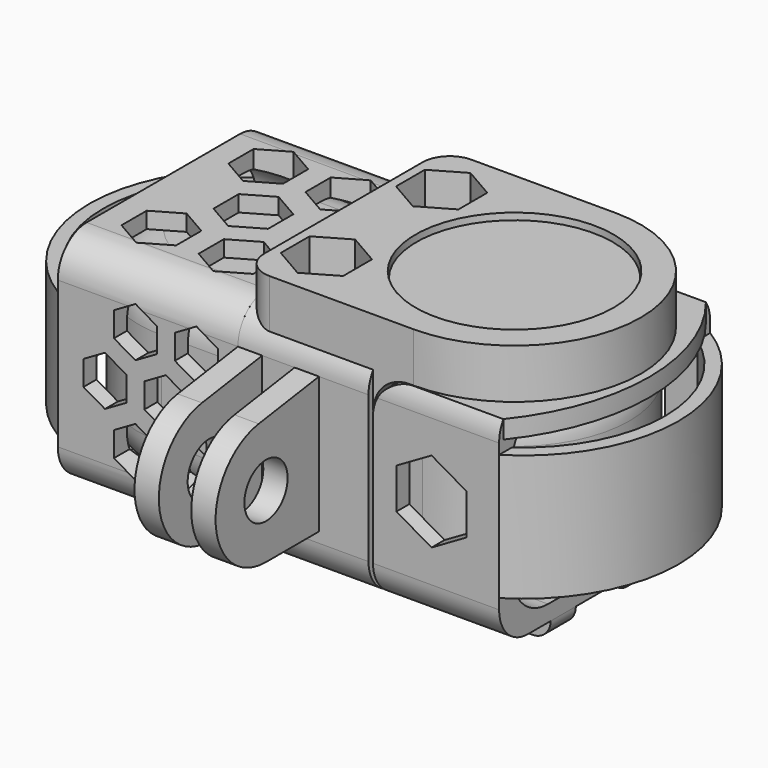
from build123d import *

# Parameters (mm, degrees)
PAD_DEPTH            = 10.25
FILLET_R             = 5
SKETCH001_R          = 10.9
PAD001_DEPTH         = 4.8
PAD002_DEPTH         = 10
PAD002_DEPTH_BACK    = 4.5
PAD003_DEPTH         = 4.5
SKETCH004_R          = 3
POCKET_DEPTH         = 4.501
POCKET_DEPTH_BACK    = 10.001
SKETCH005_W          = 20
SKETCH005_H          = 20
POCKET001_DEPTH      = 1.8
PAD004_DEPTH         = 5.5
FILLET001_R          = 4
SKETCH007_R          = 11
POCKET002_DEPTH      = 15.751
POCKET010_DEPTH      = 12.151
POCKET010_DEPTH_BACK = 15.751
PAD005_DEPTH         = 20
PAD006_DEPTH         = 7.5
SKETCH013_W          = 49
SKETCH013_H          = 2
POCKET003_DEPTH      = 4
PAD007_DEPTH         = 14
PAD008_DEPTH         = 7
SKETCH016_W          = 40
SKETCH016_H          = 40
POCKET004_DEPTH      = 1.901
SKETCH017_R          = 11.5
POCKET005_DEPTH      = 12.151
POCKET006_DEPTH      = 12.151
POCKET007_DEPTH      = 12.15
POCKET008_DEPTH      = 14.651
POCKET008_DEPTH_BACK = 14.651
PAD009_DEPTH         = 2
POCKET009_DEPTH      = 14.651
POCKET009_DEPTH_BACK = 14.651
POCKET011_DEPTH      = 14.651
POCKET011_DEPTH_BACK = 14.651


with BuildPart() as camera:
    # Sketch → Pad (new body, symmetric)
    with BuildSketch(Plane.XY):
        with BuildLine():
            ThreePointArc((-14.5, 12.75), (-27.25, 0), (-14.5, -12.75))
            Line((-14.5, -12.75), (14.5, -12.75))
            ThreePointArc((14.5, -12.75), (27.25, 0), (14.5, 12.75))
            Line((-14.5, 12.75), (14.5, 12.75))
        make_face()
    extrude(amount=PAD_DEPTH, both=True)

    # Fillet
    fillet_edges = [camera.edges().sort_by_distance(p)[0] for p in [
        (27.25, 0, 10.25),
        (27.25, 0, -10.25),
    ]]
    fillet(fillet_edges, radius=FILLET_R)

    # Sketch001 (on Face11 of Fillet) → Pad001 (join)
    with BuildSketch(Plane.XY.offset(10.25)):
        with Locations((14.5, 0)):
            Circle(SKETCH001_R)
    extrude(amount=PAD001_DEPTH)


with BuildPart() as holder:
    # Sketch002 → Pad002 (new body, two sides)
    with BuildSketch(Plane.YZ) as pad002_sk:
        with BuildLine():
            Line((-14.65, 8.15), (-14.65, -8.15))
            ThreePointArc((-14.65, -8.15), (-13.478427, -10.978427), (-10.65, -12.15))
            Line((-10.65, -12.15), (10.65, -12.15))
            ThreePointArc((10.65, -12.15), (13.478427, -10.978427), (14.65, -8.15))
            Line((14.65, -8.15), (14.65, 8.15))
            ThreePointArc((14.65, 8.15), (13.478427, 10.978427), (10.65, 12.15))
            Line((10.65, 12.15), (-10.65, 12.15))
            ThreePointArc((-10.65, 12.15), (-13.478427, 10.978427), (-14.65, 8.15))
        make_face()
        with BuildLine():
            Line((-12.85, 5.35), (-12.85, -5.35))
            ThreePointArc((-12.85, -5.35), (-11.385534, -8.885534), (-7.85, -10.35))
            Line((-7.85, -10.35), (7.85, -10.35))
            ThreePointArc((7.85, -10.35), (11.385534, -8.885534), (12.85, -5.35))
            Line((12.85, -5.35), (12.85, 5.35))
            ThreePointArc((12.85, 5.35), (11.385534, 8.885534), (7.85, 10.35))
            Line((7.85, 10.35), (-7.85, 10.35))
            ThreePointArc((-7.85, 10.35), (-11.385534, 8.885534), (-12.85, 5.35))
        make_face(mode=Mode.SUBTRACT)
    extrude(amount=PAD002_DEPTH)
    extrude(pad002_sk.sketch, amount=-PAD002_DEPTH_BACK)

    # Sketch003 → Pad003 (join, symmetric)
    with BuildSketch(Plane.YZ):
        with BuildLine():
            ThreePointArc((-23.013458, 6.926247), (-28.981537, -0.508069), (-22, -7))
            Line((-22, -7), (-14.65, -7))
            Line((-14.65, 8.15), (-14.65, -7))
            Line((-23.013458, 6.926247), (-14.65, 8.15))
        make_face()
    extrude(amount=PAD003_DEPTH, both=True)

    # Sketch004 → Pocket (cut, two sides)
    with BuildSketch(Plane.YZ) as pocket_sk:
        with Locations((-22, 0)):
            Circle(SKETCH004_R)
    extrude(amount=-POCKET_DEPTH, mode=Mode.SUBTRACT)
    extrude(pocket_sk.sketch, amount=POCKET_DEPTH_BACK, mode=Mode.SUBTRACT)

    # Sketch005 → Pocket001 (cut, symmetric)
    with BuildSketch(Plane.YZ):
        with Locations((-24.65, 3)):
            Rectangle(SKETCH005_W, SKETCH005_H)
    extrude(amount=POCKET001_DEPTH, both=True, mode=Mode.SUBTRACT)

    # Sketch006 → Pad004 (join)
    with BuildSketch(Plane.XY.offset(10.25)):
        with BuildLine():
            ThreePointArc((14.5, -14), (28.5, 0), (14.5, 14))
            Line((14.5, 14), (-1.5, 14))
            ThreePointArc((-1.5, 14), (-3.62132, 13.12132), (-4.5, 11))
            Line((-4.5, 11), (-4.5, -11))
            ThreePointArc((-4.5, -11), (-3.62132, -13.12132), (-1.5, -14))
            Line((14.5, -14), (-1.5, -14))
        make_face()
    extrude(amount=PAD004_DEPTH)

    # Fillet001
    fillet001_edges = [holder.edges().sort_by_distance(p)[0] for p in [
        (10, -11.422494, 10.25),
        (10, 11.422494, 10.25),
    ]]
    fillet(fillet001_edges, radius=FILLET001_R)

    # Sketch007 → Pocket002 (cut, through all)
    with BuildSketch(Plane.XY):
        with Locations((14.5, 0)):
            Circle(SKETCH007_R)
    extrude(amount=POCKET002_DEPTH, mode=Mode.SUBTRACT)

    # Sketch022 → Pocket010 (cut, two sides)
    with BuildSketch(Plane.XY) as pocket010_sk:
        Polygon((0, 12), (-3.464102, 10), (-3.464102, 6), (0, 4), (3.464102, 6), (3.464102, 10), align=None)
        Polygon((0, -4), (-3.464102, -6), (-3.464102, -10), (0, -12), (3.464102, -10), (3.464102, -6), align=None)
    extrude(amount=-POCKET010_DEPTH, mode=Mode.SUBTRACT)
    extrude(pocket010_sk.sketch, amount=POCKET010_DEPTH_BACK, mode=Mode.SUBTRACT)


with BuildPart() as shield:
    # Sketch008 → Pad005 (new body)
    with BuildSketch(Plane.YZ.offset(-4.5)):
        with BuildLine():
            Line((-14.65, 8.15), (-14.65, -8.15))
            ThreePointArc((-14.65, -8.15), (-13.478427, -10.978427), (-10.65, -12.15))
            Line((-10.65, -12.15), (10.65, -12.15))
            ThreePointArc((10.65, -12.15), (13.478427, -10.978427), (14.65, -8.15))
            Line((14.65, -8.15), (14.65, 8.15))
            ThreePointArc((14.65, 8.15), (13.478427, 10.978427), (10.65, 12.15))
            Line((10.65, 12.15), (-10.65, 12.15))
            ThreePointArc((-10.65, 12.15), (-13.478427, 10.978427), (-14.65, 8.15))
        make_face()
        with BuildLine():
            Line((-12.85, 5.35), (-12.85, -5.35))
            ThreePointArc((-12.85, -5.35), (-11.385534, -8.885534), (-7.85, -10.35))
            Line((-7.85, -10.35), (7.85, -10.35))
            ThreePointArc((7.85, -10.35), (11.385534, -8.885534), (12.85, -5.35))
            Line((12.85, -5.35), (12.85, 5.35))
            ThreePointArc((12.85, 5.35), (11.385534, 8.885534), (7.85, 10.35))
            Line((7.85, 10.35), (-7.85, 10.35))
            ThreePointArc((-7.85, 10.35), (-11.385534, 8.885534), (-12.85, 5.35))
        make_face(mode=Mode.SUBTRACT)
    extrude(amount=-PAD005_DEPTH)

    # Sketch012 → Pad006 (join, symmetric)
    with BuildSketch(Plane.XZ):
        with BuildLine():
            ThreePointArc((-24.5, -12.15), (-23.914214, -13.564214), (-22.5, -14.15))
            Line((-22.5, -14.15), (22.5, -14.15))
            ThreePointArc((22.5, -14.15), (23.914214, -13.564214), (24.5, -12.15))
            Line((-24.5, -12.15), (24.5, -12.15))
        make_face()
    extrude(amount=PAD006_DEPTH, both=True)

    # Sketch013 → Pocket003 (cut, symmetric)
    with BuildSketch(Plane.XZ):
        with Locations((0, -13.15)):
            Rectangle(SKETCH013_W, SKETCH013_H)
    extrude(amount=POCKET003_DEPTH, both=True, mode=Mode.SUBTRACT)

    # Sketch014 → Pad007 (join)
    with BuildSketch(Plane.YZ.offset(10.5)):
        with BuildLine():
            Line((-14.65, 8.15), (-14.65, -8.15))
            ThreePointArc((-14.65, -8.15), (-13.478427, -10.978427), (-10.65, -12.15))
            Line((-10.65, -12.15), (10.65, -12.15))
            ThreePointArc((10.65, -12.15), (13.478427, -10.978427), (14.65, -8.15))
            Line((14.65, -8.15), (14.65, 8.15))
            ThreePointArc((14.65, 8.15), (13.478427, 10.978427), (10.65, 12.15))
            Line((10.65, 12.15), (-10.65, 12.15))
            ThreePointArc((-10.65, 12.15), (-13.478427, 10.978427), (-14.65, 8.15))
        make_face()
        with BuildLine():
            Line((-12.85, 5.35), (-12.85, -5.35))
            ThreePointArc((-12.85, -5.35), (-11.385534, -8.885534), (-7.85, -10.35))
            Line((-7.85, -10.35), (7.85, -10.35))
            ThreePointArc((7.85, -10.35), (11.385534, -8.885534), (12.85, -5.35))
            Line((12.85, -5.35), (12.85, 5.35))
            ThreePointArc((12.85, 5.35), (11.385534, 8.885534), (7.85, 10.35))
            Line((7.85, 10.35), (-7.85, 10.35))
            ThreePointArc((-7.85, 10.35), (-11.385534, 8.885534), (-12.85, 5.35))
        make_face(mode=Mode.SUBTRACT)
    extrude(amount=PAD007_DEPTH)

    # Sketch015 → Pad008 (join, symmetric)
    with BuildSketch(Plane.XY):
        with BuildLine():
            ThreePointArc((-24.5, 12.85), (-31.188292, 0), (-24.5, -12.85))
            Line((-24.5, -14.65), (-24.5, -12.85))
            ThreePointArc((-24.5, 14.65), (-32.693676, 0), (-24.5, -14.65))
            Line((-24.5, 14.65), (-24.5, 12.85))
        make_face()
    pad008 = extrude(amount=PAD008_DEPTH, both=True)

    # Sketch016 → Pocket004 (cut, through all)
    with BuildSketch(Plane(origin=(0, 0, 10.25), x_dir=(0, -1, 0), z_dir=(0, 0, 1))):
        with Locations((0, 20)):
            Rectangle(SKETCH016_W, SKETCH016_H)
    extrude(amount=POCKET004_DEPTH, mode=Mode.SUBTRACT)

    # Mirrored: Pad008 across YZ
    add(pad008.mirror(Plane.YZ))

    # Sketch017 → Pocket005 (cut, through all)
    with BuildSketch(Plane.XY):
        with Locations((14.5, 0)):
            Circle(SKETCH017_R)
    extrude(amount=POCKET005_DEPTH, mode=Mode.SUBTRACT)

    # Sketch018 → Pocket006 (cut, through all)
    with BuildSketch(Plane.XY):
        Polygon((-15.75, 9.165064), (-18.781089, 10.915064), (-21.812178, 9.165064), (-21.812178, 5.665064), (-18.781089, 3.915064), (-15.75, 5.665064), align=None)
        Polygon((-11.468911, 1.75), (-14.5, 3.5), (-17.531089, 1.75), (-17.531089, -1.75), (-14.5, -3.5), (-11.468911, -1.75), align=None)
        Polygon((-15.75, -5.665064), (-18.781089, -3.915064), (-21.812178, -5.665064), (-21.812178, -9.165064), (-18.781089, -10.915064), (-15.75, -9.165064), align=None)
        Polygon((-7.187822, 9.165064), (-10.218911, 10.915064), (-13.25, 9.165064), (-13.25, 5.665064), (-10.218911, 3.915064), (-7.187822, 5.665064), align=None)
        Polygon((-10.218911, -3.915064), (-13.25, -5.665064), (-13.25, -9.165064), (-10.218911, -10.915064), (-7.187822, -9.165064), (-7.187822, -5.665064), align=None)
    extrude(amount=POCKET006_DEPTH, mode=Mode.SUBTRACT)

    # Sketch018 → Pocket007 (cut)
    with BuildSketch(Plane.XY):
        Polygon((-15.75, 9.165064), (-18.781089, 10.915064), (-21.812178, 9.165064), (-21.812178, 5.665064), (-18.781089, 3.915064), (-15.75, 5.665064), align=None)
        Polygon((-11.468911, 1.75), (-14.5, 3.5), (-17.531089, 1.75), (-17.531089, -1.75), (-14.5, -3.5), (-11.468911, -1.75), align=None)
        Polygon((-15.75, -5.665064), (-18.781089, -3.915064), (-21.812178, -5.665064), (-21.812178, -9.165064), (-18.781089, -10.915064), (-15.75, -9.165064), align=None)
        Polygon((-7.187822, 9.165064), (-10.218911, 10.915064), (-13.25, 9.165064), (-13.25, 5.665064), (-10.218911, 3.915064), (-7.187822, 5.665064), align=None)
        Polygon((-10.218911, -3.915064), (-13.25, -5.665064), (-13.25, -9.165064), (-10.218911, -10.915064), (-7.187822, -9.165064), (-7.187822, -5.665064), align=None)
    pocket007 = extrude(amount=-POCKET007_DEPTH, mode=Mode.SUBTRACT)

    # Mirrored001: Pocket007 across YZ
    add(pocket007.mirror(Plane.YZ), mode=Mode.SUBTRACT)

    # Sketch019 → Pocket008 (cut, two sides)
    with BuildSketch(Plane.XZ) as pocket008_sk:
        Polygon((-16.88157, 1.375), (-19.26314, 2.75), (-21.64471, 1.375), (-21.64471, -1.375), (-19.26314, -2.75), (-16.88157, -1.375), align=None)
        Polygon((-13.5, 7.232051), (-15.88157, 8.607051), (-18.26314, 7.232051), (-18.26314, 4.482051), (-15.88157, 3.107051), (-13.5, 4.482051), align=None)
        Polygon((-13.5, -4.482051), (-15.88157, -3.107051), (-18.26314, -4.482051), (-18.26314, -7.232051), (-15.88157, -8.607051), (-13.5, -7.232051), align=None)
        Polygon((-10.11843, -1.375), (-10.11843, 1.375), (-12.5, 2.75), (-14.88157, 1.375), (-14.88157, -1.375), (-12.5, -2.75), align=None)
        Polygon((-6.73686, 4.482051), (-6.73686, 7.232051), (-9.11843, 8.607051), (-11.5, 7.232051), (-11.5, 4.482051), (-9.11843, 3.107051), align=None)
        Polygon((-6.73686, -4.482051), (-9.11843, -3.107051), (-11.5, -4.482051), (-11.5, -7.232051), (-9.11843, -8.607051), (-6.73686, -7.232051), align=None)
    extrude(amount=-POCKET008_DEPTH, mode=Mode.SUBTRACT)
    extrude(pocket008_sk.sketch, amount=POCKET008_DEPTH_BACK, mode=Mode.SUBTRACT)

    # Sketch020 (on Face230 of Pocket008) → Pad009 (join)
    with BuildSketch(Plane(origin=(0, 0, 10.25), x_dir=(0, -1, 0), z_dir=(0, 0, 1))):
        with BuildLine():
            ThreePointArc((9.682458, 24.5), (0, 27), (-9.682458, 24.5))
            Line((-14.054409, 24.5), (-9.682458, 24.5))
            ThreePointArc((14.054409, 24.5), (0, 29.444964), (-14.054409, 24.5))
            Line((9.682458, 24.5), (14.054409, 24.5))
        make_face()
    extrude(amount=-PAD009_DEPTH)

    # Sketch021 → Pocket009 (cut, two sides)
    with BuildSketch(Plane.XZ) as pocket009_sk:
        Polygon((20.897114, 2.25), (17, 4.5), (13.102886, 2.25), (13.102886, -2.25), (17, -4.5), (20.897114, -2.25), align=None)
    extrude(amount=-POCKET009_DEPTH, mode=Mode.SUBTRACT)
    extrude(pocket009_sk.sketch, amount=POCKET009_DEPTH_BACK, mode=Mode.SUBTRACT)

    # Sketch023 → Pocket011 (cut, two sides)
    with BuildSketch(Plane.XZ) as pocket011_sk:
        with BuildLine():
            Line((10.5, 10.25), (10.5, 6.25))
            ThreePointArc((14.5, 10.25), (11.671573, 9.078427), (10.5, 6.25))
            Line((10.5, 10.25), (14.5, 10.25))
        make_face()
    extrude(amount=-POCKET011_DEPTH, mode=Mode.SUBTRACT)
    extrude(pocket011_sk.sketch, amount=POCKET011_DEPTH_BACK, mode=Mode.SUBTRACT)


solid = Compound([camera.part, holder.part, shield.part])
